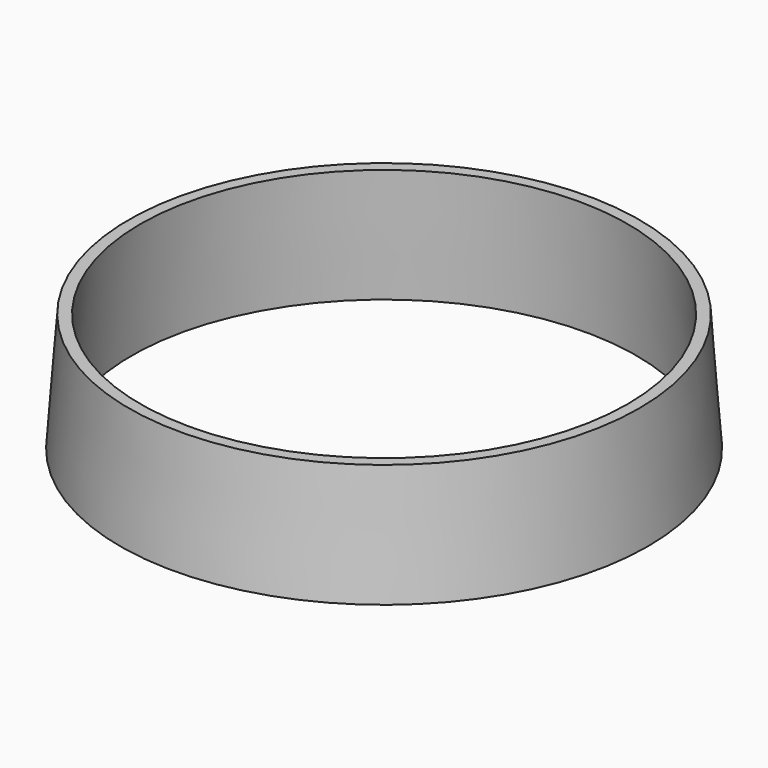
from build123d import *


with BuildPart() as cone_chico002:
    # Cone004 → Cone004 (revolve)
    with BuildSketch(Plane.XZ):
        Polygon((0, 0), (43.6, 0), (42.1, 20.5), (0, 20.5), align=None)
    revolve(axis=Axis((0, 0, 0), (0, 0, 1)))


with BuildPart() as cono001:
    # Cone005 → Cone005 (revolve)
    with BuildSketch(Plane.XZ):
        Polygon((0, 0), (45.6, 0), (44.1, 20.5), (0, 20.5), align=None)
    revolve(axis=Axis((0, 0, 0), (0, 0, 1)))

    # Cut015023: cut Cone_chico002
    add(cone_chico002.part, mode=Mode.SUBTRACT)


solid = cono001.part
